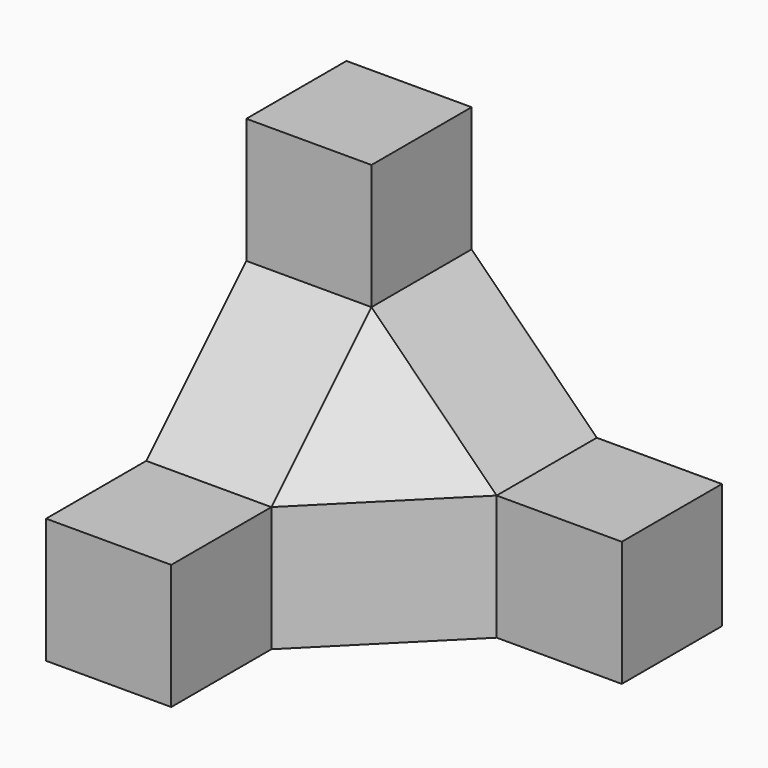
from build123d import *

# Parameters (mm, degrees)
F0_W     = 10
F0_H     = 10
F1_DEPTH = 30
F2_DEPTH = 10
F4_DEPTH = 10
F6_DEPTH = 10


with BuildPart() as f1:
    # F0 (on Front) → F1 (new body)
    with BuildSketch(Plane.XZ):
        with Locations((5, 5)):
            Rectangle(F0_W, F0_H)
    extrude(amount=F1_DEPTH)

    # F0 (on Front) → F2 (join)
    with BuildSketch(Plane.XZ):
        with Locations((5, 15)):
            Rectangle(F0_W, F0_H)
        with Locations((5, 25)):
            Rectangle(F0_W, F0_H)
        with Locations((15, 5)):
            Rectangle(F0_W, F0_H)
        with Locations((25, 5)):
            Rectangle(F0_W, F0_H)
        Polygon((10, 20), (10, 10), (20, 10), align=None)
    extrude(amount=F2_DEPTH)

    # F3 (on Right) → F4 (join)
    with BuildSketch(Plane.YZ):
        Polygon((-10, 10), (-10, 20), (-20, 10), align=None)
    extrude(amount=F4_DEPTH)

    # F5 (on Top) → F6 (join)
    with BuildSketch(Plane.XY):
        Polygon((10, -10), (10, -20), (20, -10), align=None)
    extrude(amount=F6_DEPTH)

    # F6_face (on face) → F7 section 0
    with BuildSketch(Plane(origin=(13.3333333333, -13.3333333333, 10), x_dir=(1, 0, 0), z_dir=(0, 0, 1)), mode=Mode.PRIVATE) as f7_s0:
        Polygon((-3.3333333333, 3.3333333333), (-3.3333333333, -6.6666666667), (6.6666666667, 3.3333333333), align=None)
    loft([f7_s0.sketch, Vertex(10, -10, 20)])


solid = f1.part
